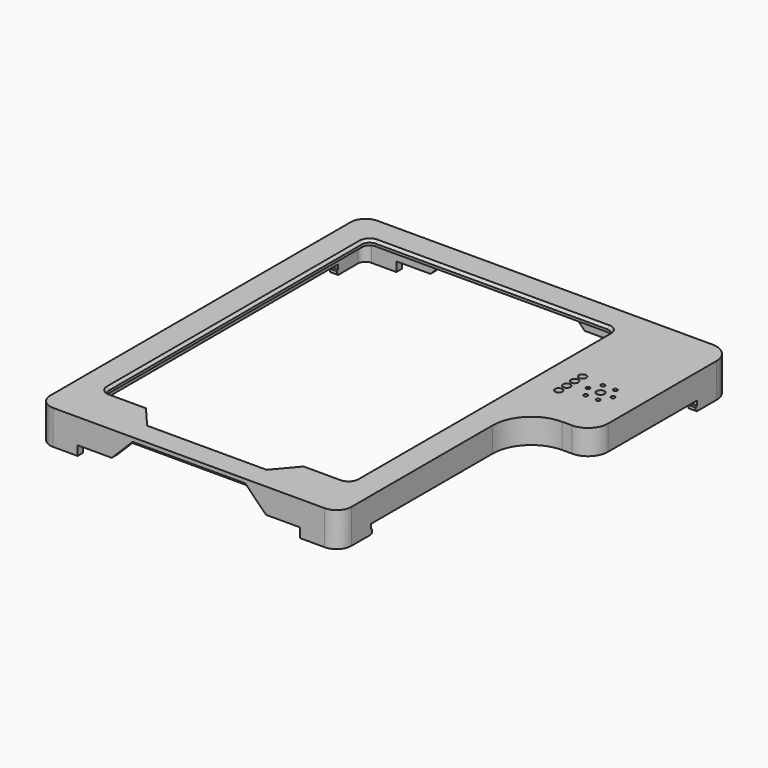
from build123d import *

# Parameters (mm, degrees)
PAD007_DEPTH    = 10
POCKET006_DEPTH = 8
POCKET007_DEPTH = 2
SKETCH022_R     = 1.5
SKETCH022_R_2   = 1.6
SKETCH022_R_3   = 0.8
POCKET009_DEPTH = 2
POCKET010_DEPTH = 162.801
PAD011_DEPTH    = 3.8
SKETCH045_W     = 2.8
SKETCH045_H     = 2
SKETCH046_W     = 2.8
SKETCH046_H     = 1.2
SKETCH047_W     = 2.8
SKETCH047_H     = 2
SKETCH048_W     = 2.8
SKETCH048_H     = 1.2
SKETCH049_W     = 2.8
SKETCH049_H     = 2
SKETCH050_W     = 2.8
SKETCH050_H     = 1.2
SKETCH051_W     = 2.8
SKETCH051_H     = 2
SKETCH052_W     = 2.8
SKETCH052_H     = 1.2
CHAMFER003_SIZE = 1.4
CHAMFER004_SIZE = 1


with BuildPart() as part:
    # Sketch014 → Pad007 (new body)
    with BuildSketch(Plane.XY):
        with BuildLine():
            Line((-54.5, 81.4), (80, 81.4))
            ThreePointArc((88, 73.4), (85.656854, 79.056854), (80, 81.4))
            Line((88, 73.4), (88, 19))
            ThreePointArc((80, 11), (85.656854, 13.343146), (88, 19))
            Line((76, 11), (80, 11))
            ThreePointArc((76, 11), (65.039845, 6.460155), (60.5, -4.5))
            Line((60.5, -75.4), (60.5, -4.5))
            ThreePointArc((54.5, -81.4), (58.742641, -79.642641), (60.5, -75.4))
            Line((54.5, -81.4), (-54.5, -81.4))
            ThreePointArc((-60.5, -75.4), (-58.742641, -79.642641), (-54.5, -81.4))
            Line((-60.5, -75.4), (-60.5, 75.4))
            ThreePointArc((-54.5, 81.4), (-58.742641, 79.642641), (-60.5, 75.4))
        make_face()
    extrude(amount=-PAD007_DEPTH)

    # Sketch017 (on Face14 of Pad007) → Pocket006 (cut)
    with BuildSketch(Plane(origin=(0, 0, -10), x_dir=(1, 0, 0), z_dir=(0, 0, -1))):
        with BuildLine():
            Line((-54.7, 78.6), (54.7, 78.6))
            ThreePointArc((57.7, 75.6), (56.82132, 77.72132), (54.7, 78.6))
            Line((57.7, 4.7), (57.7, 75.6))
            ThreePointArc((57.7, 4.7), (63.118525, -8.381475), (76.2, -13.8))
            Line((80.2, -13.8), (76.2, -13.8))
            ThreePointArc((85.2, -18.8), (83.735534, -15.264466), (80.2, -13.8))
            Line((85.2, -18.8), (85.2, -73.6))
            ThreePointArc((80.2, -78.6), (83.735534, -77.135534), (85.2, -73.6))
            Line((80.2, -78.6), (-54.7, -78.6))
            ThreePointArc((-57.7, -75.6), (-56.82132, -77.72132), (-54.7, -78.6))
            Line((-57.7, -75.6), (-57.7, 75.6))
            ThreePointArc((-54.7, 78.6), (-56.82132, 77.72132), (-57.7, 75.6))
        make_face()
    extrude(amount=-POCKET006_DEPTH, mode=Mode.SUBTRACT)

    # Sketch018 (on Face4 of Pocket006) → Pocket007 (cut)
    with BuildSketch(Plane.XY):
        with BuildLine():
            Line((-46.5, 70.4), (46.5, 70.4))
            ThreePointArc((49.5, 67.4), (48.62132, 69.52132), (46.5, 70.4))
            Line((49.5, 67.4), (49.5, -59.4))
            ThreePointArc((46.5, -62.4), (48.62132, -61.52132), (49.5, -59.4))
            Line((46.5, -62.4), (32.5, -62.4))
            Line((32.5, -62.4), (24, -72.4))
            Line((24, -72.4), (-24, -72.4))
            Line((-24, -72.4), (-32.5, -62.4))
            Line((-32.5, -62.4), (-46.5, -62.4))
            ThreePointArc((-49.5, -59.4), (-48.62132, -61.52132), (-46.5, -62.4))
            Line((-49.5, -59.4), (-49.5, 67.4))
            ThreePointArc((-46.5, 70.4), (-48.62132, 69.52132), (-49.5, 67.4))
        make_face()
    extrude(amount=-POCKET007_DEPTH, mode=Mode.SUBTRACT)

    # Sketch022 (on Face4 of Pocket007) → Pocket009 (cut)
    with BuildSketch(Plane.XY):
        with Locations((61.8, 39)):
            Circle(SKETCH022_R)
        with Locations((61.8, 35)):
            Circle(SKETCH022_R)
        with Locations((61.8, 31)):
            Circle(SKETCH022_R)
        with Locations((61.8, 27)):
            Circle(SKETCH022_R)
        with Locations((73, 34)):
            Circle(SKETCH022_R_2)
        with Locations((70.5, 38.330127)):
            Circle(SKETCH022_R_3)
        with Locations((75.5, 38.330127)):
            Circle(SKETCH022_R_3)
        with Locations((78, 34)):
            Circle(SKETCH022_R_3)
        with Locations((75.5, 29.669873)):
            Circle(SKETCH022_R_3)
        with Locations((70.5, 29.669873)):
            Circle(SKETCH022_R_3)
        with Locations((68, 34)):
            Circle(SKETCH022_R_3)
    extrude(amount=-POCKET009_DEPTH, mode=Mode.SUBTRACT)

    # Sketch023 (on Face7 of Pocket009) → Pocket010 (cut, through all)
    with BuildSketch(Plane(origin=(0, 81.4, 0), x_dir=(-1, 0, 0), z_dir=(0, 1, 0))):
        Polygon((-24, -3), (24, -3), (31, -10), (-31, -10), align=None)
    extrude(amount=-POCKET010_DEPTH, mode=Mode.SUBTRACT)

    # Sketch026 (on Face5 of Pocket010) → Pad011 (join)
    with BuildSketch(Plane(origin=(0, 0, -10), x_dir=(1, 0, 0), z_dir=(0, 0, -1))):
        with BuildLine():
            Line((-54.5, 81.4), (-44.7, 81.4))
            Line((-44.7, 81.4), (-44.7, 78.6))
            Line((-54.7, 78.6), (-44.7, 78.6))
            ThreePointArc((-54.7, 78.6), (-56.82132, 77.72132), (-57.7, 75.6))
            Line((-57.7, 65.6), (-57.7, 75.6))
            Line((-57.7, 65.6), (-60.5, 65.6))
            Line((-60.5, 65.6), (-60.5, 75.4))
            ThreePointArc((-54.5, 81.4), (-58.742641, 79.642641), (-60.5, 75.4))
        make_face()
        with BuildLine():
            Line((54.5, 81.4), (44.7, 81.4))
            Line((44.7, 81.4), (44.7, 78.6))
            Line((54.7, 78.6), (44.7, 78.6))
            ThreePointArc((57.7, 75.6), (56.82132, 77.72132), (54.7, 78.6))
            Line((57.7, 65.6), (57.7, 75.6))
            Line((57.7, 65.6), (60.5, 65.6))
            Line((60.5, 65.6), (60.5, 75.4))
            ThreePointArc((60.5, 75.4), (58.742641, 79.642641), (54.5, 81.4))
        make_face()
        with BuildLine():
            Line((-54.5, -81.4), (-44.7, -81.4))
            Line((-44.7, -81.4), (-44.7, -78.6))
            Line((-54.7, -78.6), (-44.7, -78.6))
            ThreePointArc((-57.7, -75.6), (-56.82132, -77.72132), (-54.7, -78.6))
            Line((-57.7, -65.6), (-57.7, -75.6))
            Line((-57.7, -65.6), (-60.5, -65.6))
            Line((-60.5, -65.6), (-60.5, -75.4))
            ThreePointArc((-60.5, -75.4), (-58.742641, -79.642641), (-54.5, -81.4))
        make_face()
        with BuildLine():
            Line((80, -81.4), (70.2, -81.4))
            Line((70.2, -81.4), (70.2, -78.6))
            Line((80.2, -78.6), (70.2, -78.6))
            ThreePointArc((80.2, -78.6), (83.735534, -77.135534), (85.2, -73.6))
            Line((85.2, -63.6), (85.2, -73.6))
            Line((85.2, -63.6), (88, -63.6))
            Line((88, -63.6), (88, -73.4))
            ThreePointArc((80, -81.4), (85.656854, -79.056854), (88, -73.4))
        make_face()
    extrude(amount=PAD011_DEPTH)

    # Sketch045 (on DatumPlane) → AdditiveLoft section 0
    with BuildSketch(Plane(origin=(0, -65.6, 0), x_dir=(-1, 0, 0), z_dir=(0, 1, 0))):
        with Locations((-59.1, -12.8)):
            Rectangle(SKETCH045_W, SKETCH045_H)
    # Sketch046 (on DatumPlane) → AdditiveLoft section 1
    with BuildSketch(Plane(origin=(0, -65, 0), x_dir=(-1, 0, 0), z_dir=(0, 1, 0))):
        with Locations((-59.1, -12.8)):
            Rectangle(SKETCH046_W, SKETCH046_H)
    loft()

    # Sketch047 (on DatumPlane) → AdditiveLoft001 section 0
    with BuildSketch(Plane(origin=(0, -65.6, 0), x_dir=(-1, 0, 0), z_dir=(0, 1, 0))):
        with Locations((59.1, -12.8)):
            Rectangle(SKETCH047_W, SKETCH047_H)
    # Sketch048 (on DatumPlane) → AdditiveLoft001 section 1
    with BuildSketch(Plane(origin=(0, -65, 0), x_dir=(-1, 0, 0), z_dir=(0, 1, 0))):
        with Locations((59.1, -12.8)):
            Rectangle(SKETCH048_W, SKETCH048_H)
    loft()

    # Sketch049 (on DatumPlane) → AdditiveLoft002 section 0
    with BuildSketch(Plane.XZ.offset(-65.6)):
        with Locations((-59.1, -12.8)):
            Rectangle(SKETCH049_W, SKETCH049_H)
    # Sketch050 (on DatumPlane) → AdditiveLoft002 section 1
    with BuildSketch(Plane.XZ.offset(-65)):
        with Locations((-59.1, -12.8)):
            Rectangle(SKETCH050_W, SKETCH050_H)
    loft()

    # Sketch051 (on DatumPlane) → AdditiveLoft003 section 0
    with BuildSketch(Plane.XZ.offset(-63.6)):
        with Locations((86.6, -12.8)):
            Rectangle(SKETCH051_W, SKETCH051_H)
    # Sketch052 (on DatumPlane) → AdditiveLoft003 section 1
    with BuildSketch(Plane.XZ.offset(-63)):
        with Locations((86.6, -12.8)):
            Rectangle(SKETCH052_W, SKETCH052_H)
    loft()

    # Chamfer003
    chamfer003_edges = [part.edges().sort_by_distance(p)[0] for p in [
        (0, -81.4, -3),
        (0, 81.4, -3),
    ]]
    chamfer(chamfer003_edges, length=CHAMFER003_SIZE)

    # Chamfer004
    chamfer004_edges = [part.edges().sort_by_distance(p)[0] for p in [
        (-49.5, 4, 0),
    ]]
    chamfer(chamfer004_edges, length=CHAMFER004_SIZE)


with BuildPart() as part_1:
    # Body002 placement: moved
    add(part.part.moved(Location((0, 0, 21))))


solid = part_1.part
